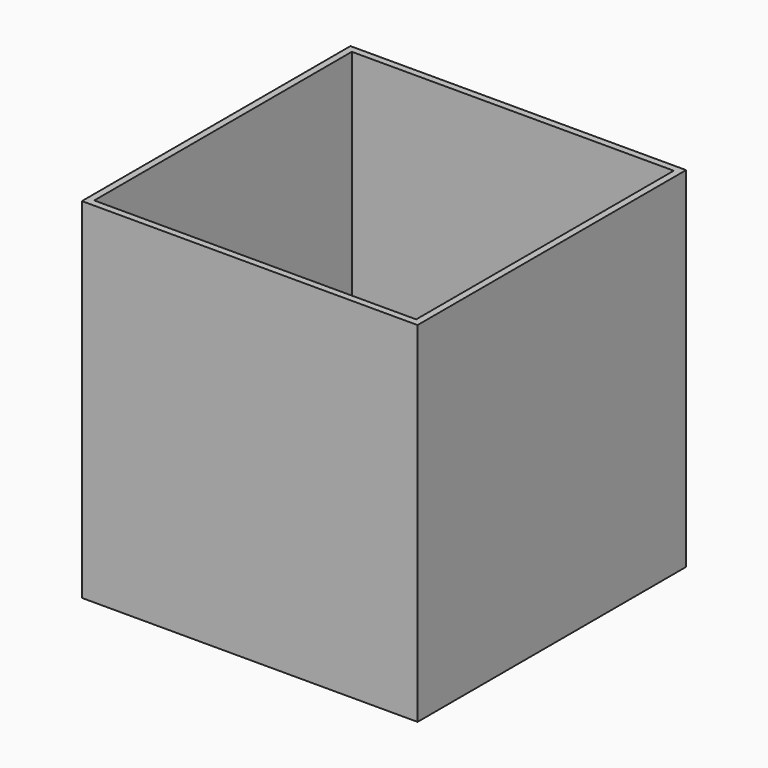
from build123d import *

# Parameters (mm, degrees)
F0_W     = 49
F0_H     = 49
F0_W_2   = 47
F0_H_2   = 47
F1_DEPTH = 1
F2_DEPTH = 50


with BuildPart() as f1:
    # F0 (on Top) → F1 (new body)
    with BuildSketch(Plane.XY):
        Rectangle(F0_W, F0_H)
        Rectangle(F0_W_2, F0_H_2, mode=Mode.SUBTRACT)
        Rectangle(F0_W_2, F0_H_2)
    extrude(amount=-F1_DEPTH)

    # F0 (on Top) → F2 (join)
    with BuildSketch(Plane.XY):
        Rectangle(F0_W, F0_H)
        Rectangle(F0_W_2, F0_H_2, mode=Mode.SUBTRACT)
    extrude(amount=F2_DEPTH)


solid = f1.part
